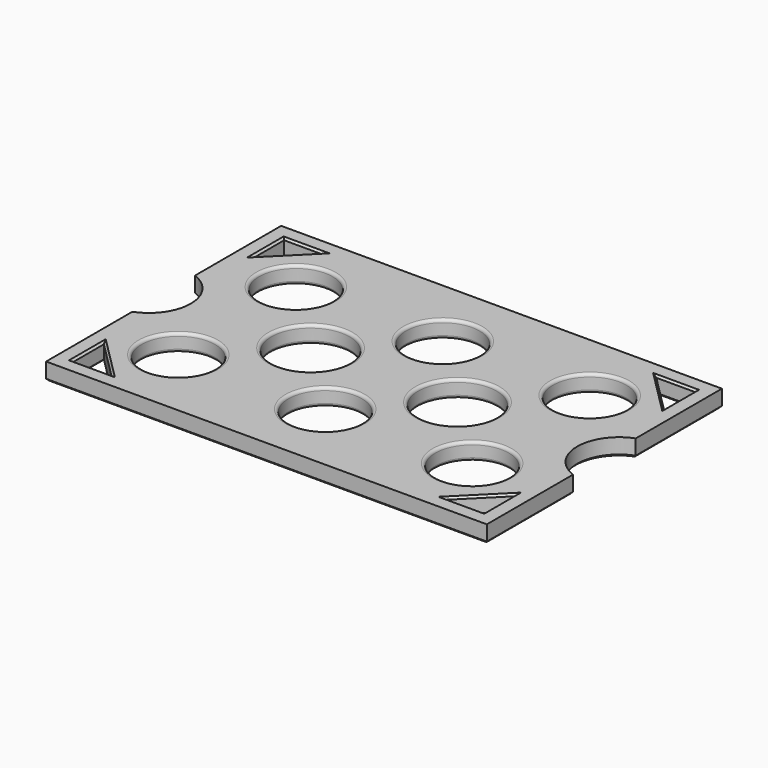
from build123d import *

# Parameters (mm, degrees)
F0_W     = 90
F0_H     = 60
F1_DEPTH = 3.5
F2_R     = 7.5
F2_R_2   = 8
F3_DEPTH = 3.5
F5_DEPTH = 3.5
F7_DEPTH = 3.5
F8_R     = 0.6
F9_SIZE  = 0.4


with BuildPart() as f1:
    # F0 (on Top) → F1 (new body)
    with BuildSketch(Plane.XY):
        Rectangle(F0_W, F0_H)
    extrude(amount=F1_DEPTH)

    # F2 (on Top) → F3 (cut, through all)
    with BuildSketch(Plane.XY):
        with Locations((0, 15)):
            Circle(F2_R)
        with Locations((30, 15)):
            Circle(F2_R)
        with Locations((15, 0)):
            Circle(F2_R_2)
        with Locations((-30, 15)):
            Circle(F2_R)
        with Locations((30, -15)):
            Circle(F2_R)
        with Locations((0, -15)):
            Circle(F2_R)
        with Locations((-30, -15)):
            Circle(F2_R)
        with Locations((-15, 0)):
            Circle(F2_R_2)
    extrude(amount=F3_DEPTH, mode=Mode.SUBTRACT)

    # F4 (on Top) → F5 (cut, through all)
    with BuildSketch(Plane.XY):
        Polygon((-34, 27), (-42, 27), (-42, 19), align=None)
        Polygon((34, 27), (42, 19), (42, 27), align=None)
        Polygon((-34, -27), (-42, -19), (-42, -27), align=None)
        Polygon((42, -27), (42, -19), (34, -27), align=None)
    extrude(amount=F5_DEPTH, mode=Mode.SUBTRACT)

    # F6 (on Top) → F7 (cut, through all)
    with BuildSketch(Plane.XY):
        with BuildLine():
            Line((-45, 8), (-45, -8))
            ThreePointArc((-45, -8), (-39.455996, 0), (-45, 8))
        make_face()
        with BuildLine():
            ThreePointArc((45, 8), (39.455996, 0), (45, -8))
            Line((45, -8), (45, 8))
        make_face()
    extrude(amount=F7_DEPTH, mode=Mode.SUBTRACT)

    # F8
    f8_edges = [f1.edges().sort_by_distance(p)[0] for p in [
        (-22.5, 15, 1.75),
        (-37.5, 15, 0),
        (-37.5, 15, 3.5),
        (7.5, 15, 1.75),
        (-7.5, 15, 0),
        (-7.5, 15, 3.5),
        (37.5, 15, 1.75),
        (22.5, 15, 0),
        (22.5, 15, 3.5),
        (23, 0, 1.75),
        (7, 0, 0),
        (7, 0, 3.5),
        (-7, 0, 1.75),
        (-23, 0, 0),
        (-23, 0, 3.5),
        (-22.5, -15, 1.75),
        (-37.5, -15, 0),
        (-37.5, -15, 3.5),
        (7.5, -15, 1.75),
        (-7.5, -15, 0),
        (-7.5, -15, 3.5),
        (37.5, -15, 1.75),
        (22.5, -15, 0),
        (22.5, -15, 3.5),
    ]]
    fillet(f8_edges, radius=F8_R)

    # F9
    f9_edges = [f1.edges().sort_by_distance(p)[0] for p in [
        (-38.1, 15, 0),
        (45, 19, 0),
        (39.455996, 0, 0),
        (45, -19, 0),
        (0, -30, 0),
        (-45, -19, 0),
        (-39.455996, 0, 0),
        (-45, 19, 0),
        (0, 30, 0),
        (-38, -23, 0),
        (-38, -27, 0),
        (-42, -23, 0),
        (42, -23, 0),
        (38, -27, 0),
        (38, -23, 0),
        (-38, 27, 0),
        (-38, 23, 0),
        (-42, 23, 0),
        (38, 23, 0),
        (38, 27, 0),
        (42, 23, 0),
        (-8.1, 15, 0),
        (21.9, 15, 0),
        (6.4, 0, 0),
        (-23.6, 0, 0),
        (-38.1, -15, 0),
        (-8.1, -15, 0),
        (21.9, -15, 0),
        (-38, -23, 3.5),
        (-42, -23, 3.5),
        (-38, -27, 3.5),
        (-38, 27, 3.5),
        (-42, 23, 3.5),
        (-38, 23, 3.5),
        (38, 27, 3.5),
        (38, 23, 3.5),
        (42, 23, 3.5),
        (42, -23, 3.5),
        (38, -23, 3.5),
        (38, -27, 3.5),
    ]]
    chamfer(f9_edges, length=F9_SIZE)


solid = f1.part
